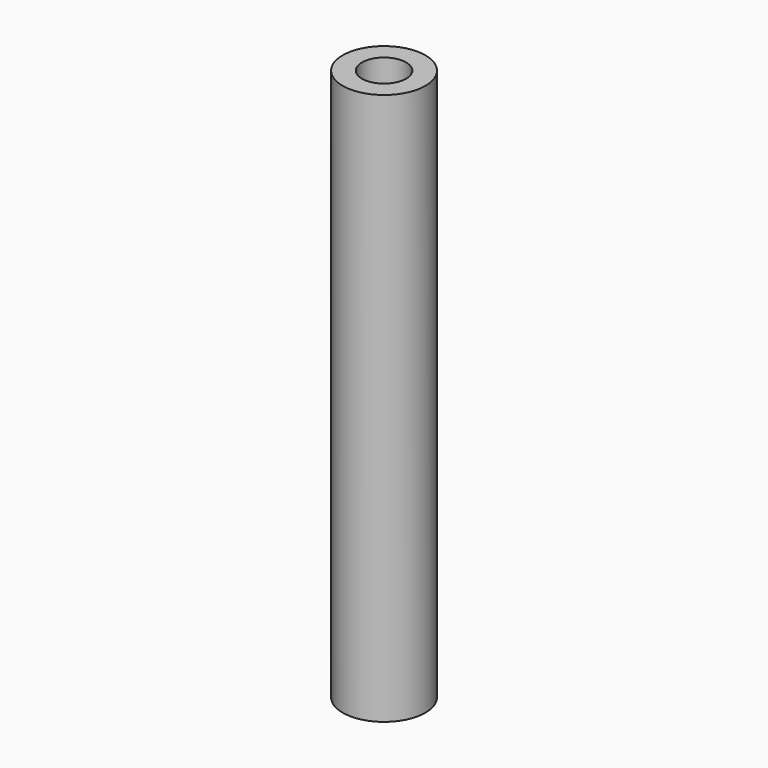
from build123d import *

# Parameters (mm, degrees)
SKETCH_R   = 3
SKETCH_R_2 = 1.6
PAD_DEPTH  = 40


with BuildPart() as part:
    # Sketch → Pad (new body)
    with BuildSketch(Plane.XY):
        Circle(SKETCH_R)
        Circle(SKETCH_R_2, mode=Mode.SUBTRACT)
    extrude(amount=PAD_DEPTH)


solid = part.part
